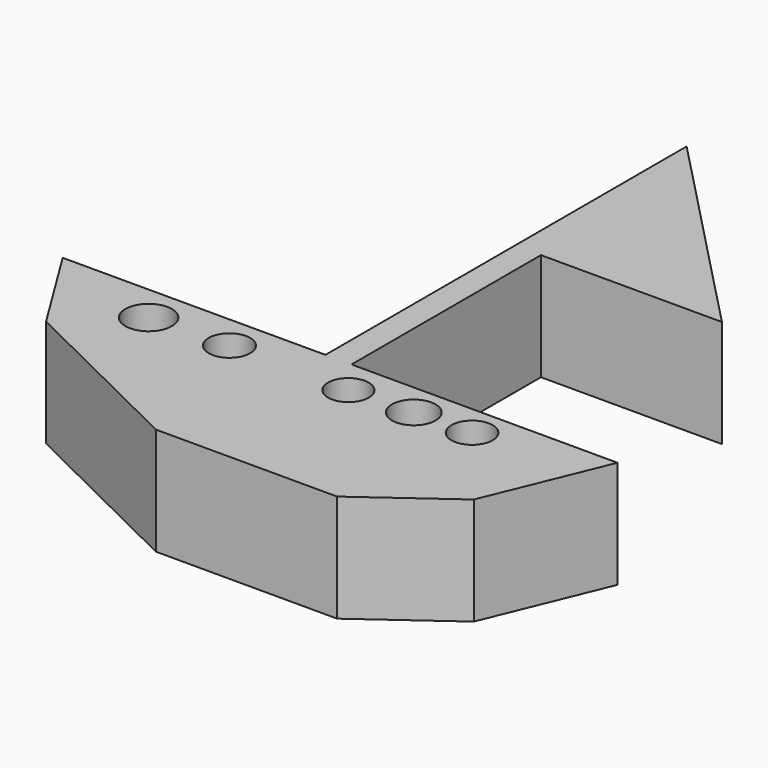
from build123d import *

# Parameters (mm, degrees)
F0_W     = 12.2949928045
F0_H     = 111.9073554873
F1_DEPTH = 25.4
F2_DEPTH = 50.8
F3_R     = 9.6329205763
F3_R_2   = 10.3143996585
F3_R_3   = 9.7245159321
F3_R_4   = 10.9939674149
F3_R_5   = 9.8001864777
F4_DEPTH = 50.8


with BuildPart() as f1:
    # F0 (on Top) → F1 (new body)
    with BuildSketch(Plane.XY):
        with Locations((6.1474964023, 55.9536777437)):
            Rectangle(F0_W, F0_H)
        Polygon((12.2949928045, 0), (0, 0), (-124.18808043, 0), (-97.1772074699, -43.5698479414), (-11.5329865366, -85.7331603765), (74.1112306714, -85.7331603765), (114.9569302797, -56.087076664), (138.0150020123, 0), align=None)
        Polygon((0, 213.3628129959), (0, 111.9073554873), (12.2949928045, 111.9073554873), (97.8280827403, 111.9073554873), align=None)
    extrude(amount=F1_DEPTH)

    # F0 (on Top) → F2 (join)
    with BuildSketch(Plane.XY):
        with Locations((6.1474964023, 55.9536777437)):
            Rectangle(F0_W, F0_H)
        Polygon((12.2949928045, 0), (0, 0), (-124.18808043, 0), (-97.1772074699, -43.5698479414), (-11.5329865366, -85.7331603765), (74.1112306714, -85.7331603765), (114.9569302797, -56.087076664), (138.0150020123, 0), align=None)
        Polygon((0, 213.3628129959), (0, 111.9073554873), (12.2949928045, 111.9073554873), (97.8280827403, 111.9073554873), align=None)
    extrude(amount=F2_DEPTH)

    # F3 (on face) → F4 (cut)
    with BuildSketch(Plane.XY.offset(50.8)):
        with Locations((24.2112372071, -16.715940088)):
            Circle(F3_R)
        with Locations((54.1940517724, -15.5627541244)):
            Circle(F3_R_2)
        with Locations((81.1017081141, -14.7939696908)):
            Circle(F3_R_3)
        with Locations((-69.5811584592, -17.4847338349)):
            Circle(F3_R_4)
        with Locations((-32.2948358953, -16.3315478712)):
            Circle(F3_R_5)
    extrude(amount=-F4_DEPTH, mode=Mode.SUBTRACT)


solid = f1.part
